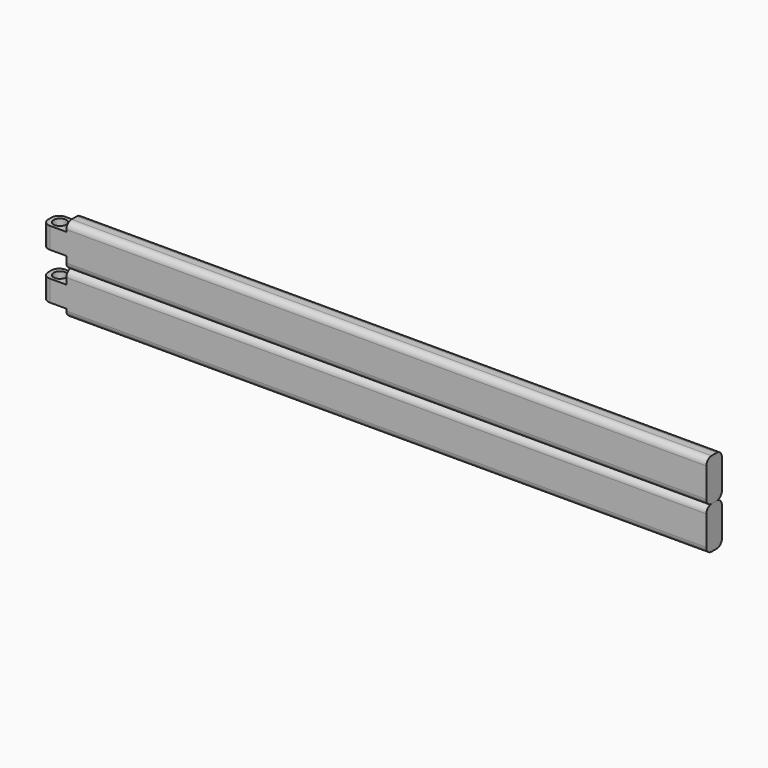
from build123d import *

# Parameters (mm, degrees)
F0_W     = 127
F0_H     = 8.382
F1_DEPTH = 3.855923
F2_W     = 4.826
F2_H     = 4.191
F3_DEPTH = 3.855923
F4_R     = 1.27
F5_DEPTH = 6.70947
F6_R     = 1.27
F7_R     = 1.524


with BuildPart() as f1:
    # F0 (on Front) → F1 (new body)
    with BuildSketch(Plane.XZ):
        with Locations((8.667751, 4.191)):
            Rectangle(F0_W, F0_H)
    extrude(amount=F1_DEPTH)

    # F2 (on face) → F3 (join)
    with BuildSketch(Plane.XZ.offset(3.855923)):
        with Locations((-57.245249, 4.61297)):
            Rectangle(F2_W, F2_H)
    extrude(amount=-F3_DEPTH)

    # F4 (on face) → F5 (cut, through all)
    with BuildSketch(Plane.XY.offset(6.70847)):
        with Locations((-57.626249, -1.950923)):
            Circle(F4_R)
    extrude(amount=-F5_DEPTH, mode=Mode.SUBTRACT)

    # F6
    f6_edges = [f1.edges().sort_by_distance(p)[0] for p in [
        (8.667751, -3.855923, 8.382),
        (8.667751, 0, 8.382),
        (8.667751, -3.855923, 0),
        (8.667751, 0, 0),
    ]]
    fillet(f6_edges, radius=F6_R)

    # F7
    f7_edges = [f1.edges().sort_by_distance(p)[0] for p in [
        (-59.658249, -3.855923, 4.61297),
        (-59.658249, 0, 4.61297),
    ]]
    fillet(f7_edges, radius=F7_R)


with BuildPart() as f8_1:
    # F8: instance of F1
    add(f1.part.mirror(Plane.XY))


solid = Compound([f1.part, f8_1.part])
